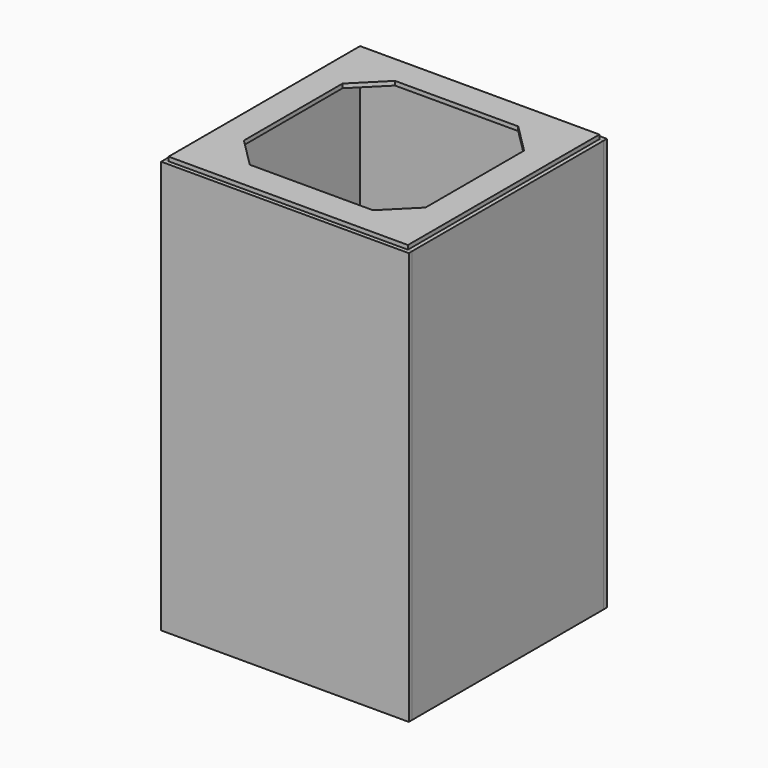
from build123d import *

# Parameters (mm, degrees)
F3_DEPTH = 500
F2_W     = 5
F2_H     = 290
F4_DEPTH = 500
F5_START = 500
F2_W_2   = 290
F5_DEPTH = 5


with BuildPart() as f3:
    # F2 (on Top) → F3 (new body)
    with BuildSketch(Plane.XY):
        Polygon((0, 300), (0, 295), (5, 295), (295, 295), (300, 295), (300, 300), align=None)
    extrude(amount=F3_DEPTH)


with BuildPart() as f3b:
    # F2 (on Top) → F3, piece 2 (new body)
    with BuildSketch(Plane.XY):
        Polygon((0, 5), (0, 0), (300, 0), (300, 5), (295, 5), (5, 5), align=None)
    extrude(amount=F3_DEPTH)


with BuildPart() as f4:
    # F2 (on Top) → F4 (new body)
    with BuildSketch(Plane.XY):
        with Locations((2.5, 150)):
            Rectangle(F2_W, F2_H)
    extrude(amount=F4_DEPTH)


with BuildPart() as f4b:
    # F2 (on Top) → F4, piece 2 (new body)
    with BuildSketch(Plane.XY):
        with Locations((297.5, 150)):
            Rectangle(F2_W, F2_H)
    extrude(amount=F4_DEPTH)


with BuildPart() as f5:
    # F2 (on Top) → F5 (new body)
    with BuildSketch(Plane.XY.offset(F5_START)):
        with Locations((150, 150)):
            Rectangle(F2_W_2, F2_H)
        Polygon((40, 224.6446609407), (40, 260), (75.3553390593, 260), (224.6446609407, 260), (260, 260), (260, 224.6446609407), (260, 75.3553390593), (260, 40), (224.6446609407, 40), (75.3553390593, 40), (40, 40), (40, 75.3553390593), align=None, mode=Mode.SUBTRACT)
        Polygon((260, 260), (224.6446609407, 260), (260, 224.6446609407), align=None)
        Polygon((75.3553390593, 260), (40, 260), (40, 224.6446609407), align=None)
        Polygon((75.3553390593, 40), (40, 75.3553390593), (40, 40), align=None)
        Polygon((260, 40), (260, 75.3553390593), (224.6446609407, 40), align=None)
    extrude(amount=F5_DEPTH)


solid = Compound([f3.part, f3b.part, f4.part, f4b.part, f5.part])
